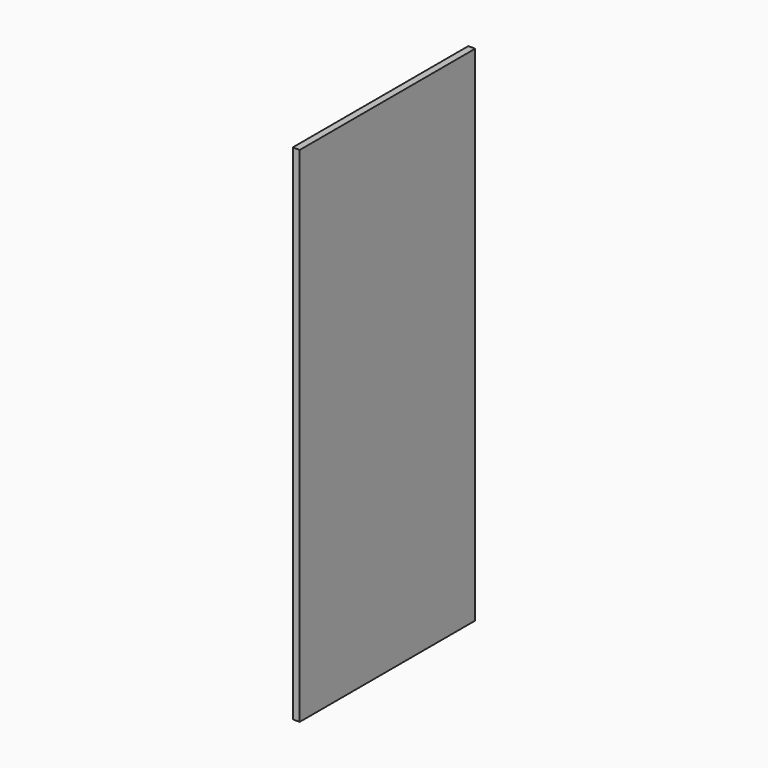
from build123d import *

# Parameters (mm, degrees)
SKETCH001_W  = 600
SKETCH001_H  = 1377
PAD001_DEPTH = 19


with BuildPart() as part:
    # Sketch001 → Pad001 (new body)
    with BuildSketch(Plane.YZ):
        Rectangle(SKETCH001_W, SKETCH001_H)
    extrude(amount=PAD001_DEPTH)


solid = part.part
